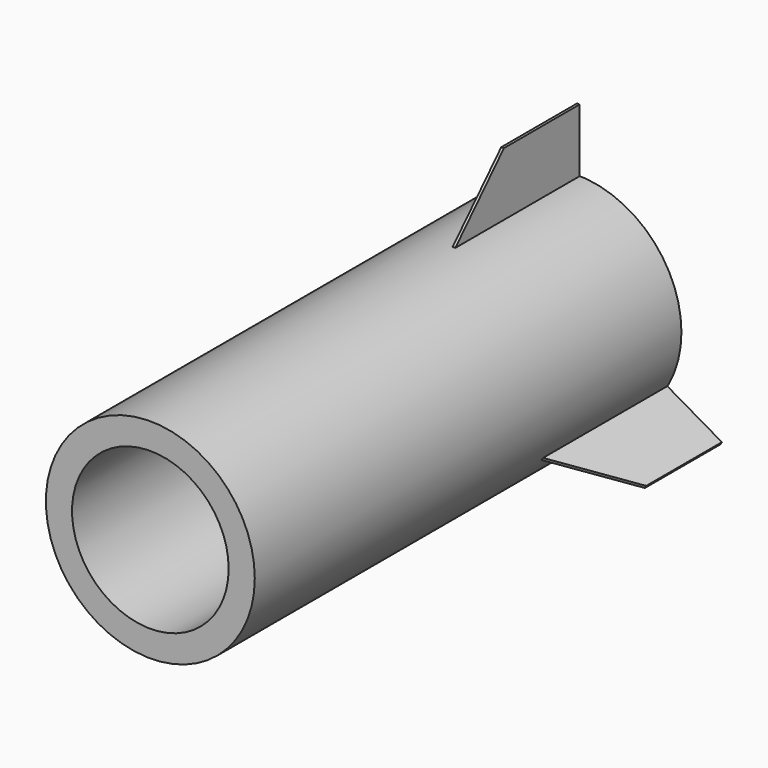
from build123d import *

# Parameters (mm, degrees)
F0_R     = 31.337293
F0_R_2   = 23.492992
F1_DEPTH = 160
F3_DEPTH = 0.8
F4_COUNT = 3


with BuildPart() as f1:
    # F0 (on Front) → F1 (new body)
    with BuildSketch(Plane.XZ):
        Circle(F0_R)
        Circle(F0_R_2, mode=Mode.SUBTRACT)
    extrude(amount=F1_DEPTH)


with BuildPart() as f3:
    # F2 (on Right) → F3 (new body)
    with BuildSketch(Plane.YZ):
        Polygon((-47.724586, 30.127017), (0, 30.127017), (0, 50.211694), (-28.397821, 50.211694), align=None)
    extrude(amount=F3_DEPTH)


with BuildPart() as f4_1:
    # F4: instance of F3
    add(f3.part.rotate(Axis((0, 0, 0), (0, 1, 0)), 1 * 360 / F4_COUNT))


with BuildPart() as f4_2:
    # F4: instance of F3
    add(f3.part.rotate(Axis((0, 0, 0), (0, 1, 0)), 2 * 360 / F4_COUNT))


solid = Compound([f1.part, f3.part, f4_1.part, f4_2.part])
